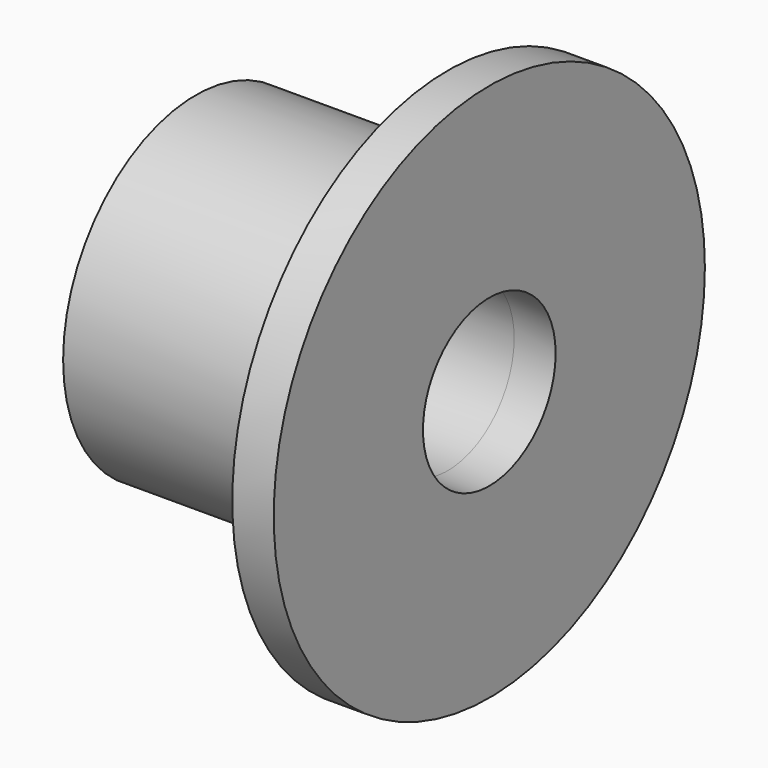
from build123d import *

# Parameters (mm, degrees)
F0_R     = 20.6375
F0_R_2   = 12.7
F0_R_3   = 6.35
F1_DEPTH = 3.175
F2_DEPTH = 19.304


with BuildPart() as f1:
    # F0 (on Right) → F1 (new body)
    with BuildSketch(Plane.YZ):
        Circle(F0_R)
        Circle(F0_R_2, mode=Mode.SUBTRACT)
        Circle(F0_R_2)
        Circle(F0_R_3, mode=Mode.SUBTRACT)
    extrude(amount=F1_DEPTH)

    # F0 (on Right) → F2 (join)
    with BuildSketch(Plane.YZ):
        Circle(F0_R_2)
        Circle(F0_R_3, mode=Mode.SUBTRACT)
    extrude(amount=-F2_DEPTH)


solid = f1.part
